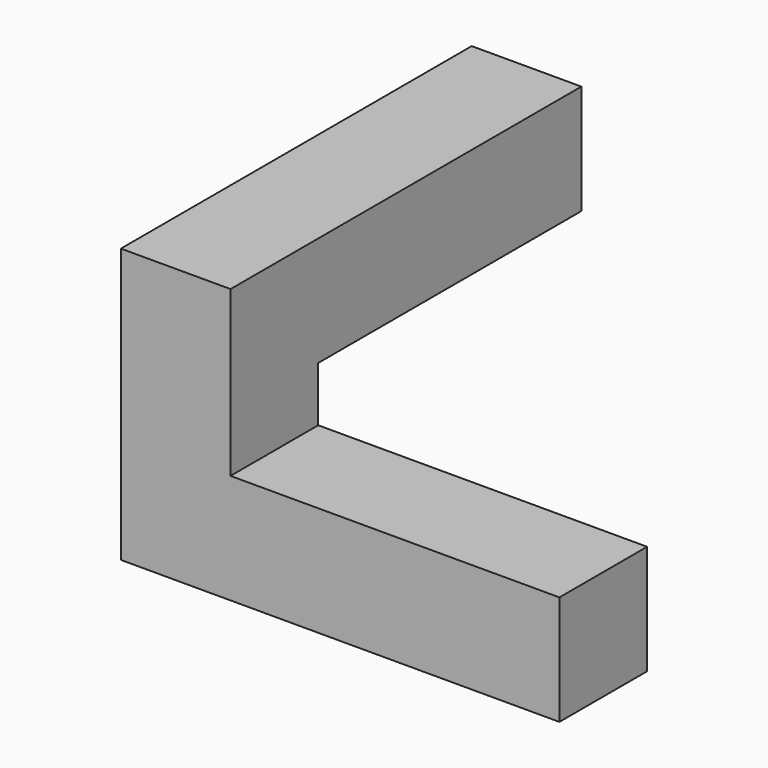
from build123d import *

# Parameters (mm, degrees)
F1_DEPTH = 25.4
F2_W     = 25.4
F2_H     = 25.4
F3_DEPTH = 76.2


with BuildPart() as f1:
    # F0 (on Front) → F1 (new body)
    with BuildSketch(Plane.XZ):
        Polygon((0, 25.4), (0, 0), (25.4, 0), (101.6, 0), (101.6, 25.4), (25.4, 25.4), (25.4, 63.5), (0, 63.5), align=None)
    extrude(amount=-F1_DEPTH)

    # F2 (on face) → F3 (join)
    with BuildSketch(Plane(origin=(0, 25.4, 0), x_dir=(-1, 0, 0), z_dir=(0, 1, 0))):
        with Locations((-12.7, 50.8)):
            Rectangle(F2_W, F2_H)
    extrude(amount=F3_DEPTH)


solid = f1.part
